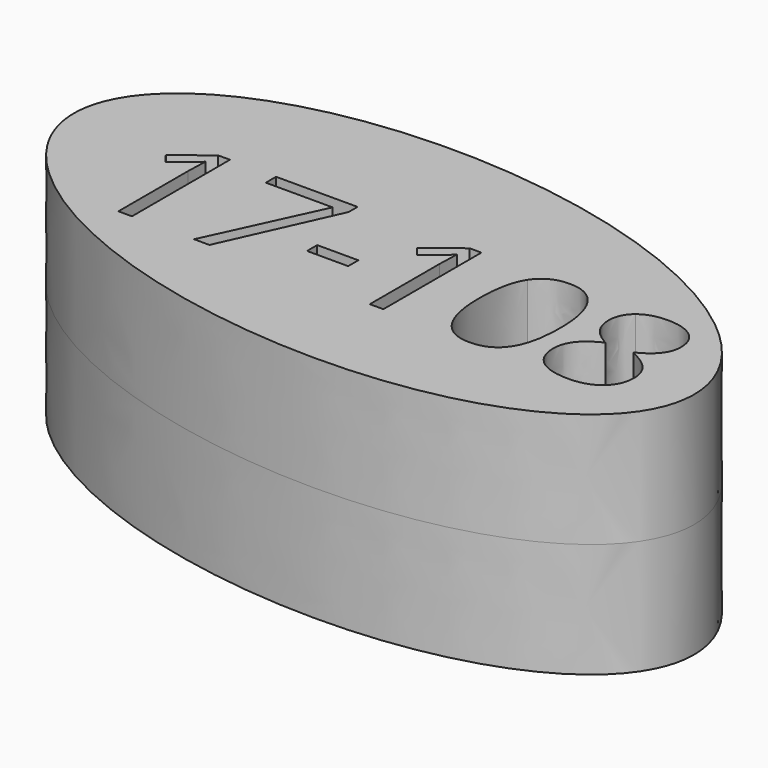
from build123d import *

# Parameters (mm, degrees)
F0_W     = 9.1228311835
F0_H     = 2.82486624
F1_DEPTH = 25.4
F2_DEPTH = 25.4


with BuildPart() as f1:
    # F0 (on Top) → F1 (new body)
    with BuildSketch(Plane.XY):
        with BuildLine():
            add(Edge.make_bspline(
                [(74.7318789363, -10.0798700005), (83.2946862979, 53.4045482582), (-33.0845357873, 36.7821441296), (-149.4637578726, 20.159740001), (-41.647343149, -26.7022741291), (66.1690715747, -73.5642882592), (74.7318789363, -10.0798700005)],
                knots=[0, 0, 0, 2.0943951024, 2.0943951024, 4.1887902048, 4.1887902048, 6.2831853072, 6.2831853072, 6.2831853072], degree=2, weights=[1, 0.5, 1, 0.5, 1, 0.5, 1]))
        make_face()
        with BuildLine():
            Line((-42.8919061176, 10.905355403), (-42.8919061176, -16.2668842822))
            Line((-42.8919061176, -16.2668842822), (-45.901132049, -16.2668842822))
            Line((-45.901132049, -16.2668842822), (-45.901132049, 3.096830407))
            add(Edge.make_bspline(
                [(-45.901132049, 3.096830407), (-45.901132049, 5.5172947432), (-45.7524548785, 7.6701401724)],
                knots=[0, 0, 0, 1, 1, 1], degree=2))
            add(Edge.make_bspline(
                [(-45.7524548785, 7.6701401724), (-46.1390155219, 7.2776324422), (-46.6237030978, 6.8524157345)],
                knots=[0, 0, 0, 1, 1, 1], degree=2))
            add(Edge.make_bspline(
                [(-46.6237030978, 6.8524157345), (-47.1083906737, 6.4271990268), (-51.0453621492, 3.2276663171)],
                knots=[0, 0, 0, 1, 1, 1], degree=2))
            Line((-51.0453621492, 3.2276663171), (-52.680811025, 5.3448292254))
            Line((-52.680811025, 5.3448292254), (-45.4907830584, 10.905355403))
            Line((-45.4907830584, 10.905355403), (-42.8919061176, 10.905355403))
        make_face(mode=Mode.SUBTRACT)
        Polygon((-25.698878118, -16.2668842822), (-29.1184530401, -16.2668842822), (-17.8606176879, 8.0626479026), (-32.6688638723, 8.0626479026), (-32.6688638723, 10.905355403), (-14.5897199363, 10.905355403), (-14.5897199363, 8.4313672855), align=None, mode=Mode.SUBTRACT)
        with Locations((-6.5314172938, -6.0646568408)):
            Rectangle(F0_W, F0_H, mode=Mode.SUBTRACT)
        with BuildLine():
            Line((12.8739270032, 10.905355403), (12.8739270032, -16.2668842822))
            Line((12.8739270032, -16.2668842822), (9.8647010717, -16.2668842822))
            Line((9.8647010717, -16.2668842822), (9.8647010717, 3.096830407))
            add(Edge.make_bspline(
                [(9.8647010717, 3.096830407), (9.8647010717, 5.5172947432), (10.0133782422, 7.6701401724)],
                knots=[0, 0, 0, 1, 1, 1], degree=2))
            add(Edge.make_bspline(
                [(10.0133782422, 7.6701401724), (9.6268175989, 7.2776324422), (9.142130023, 6.8524157345)],
                knots=[0, 0, 0, 1, 1, 1], degree=2))
            add(Edge.make_bspline(
                [(9.142130023, 6.8524157345), (8.6574424471, 6.4271990268), (4.7204709715, 3.2276663171)],
                knots=[0, 0, 0, 1, 1, 1], degree=2))
            Line((4.7204709715, 3.2276663171), (3.0850220957, 5.3448292254))
            Line((3.0850220957, 5.3448292254), (10.2750500624, 10.905355403))
            Line((10.2750500624, 10.905355403), (12.8739270032, 10.905355403))
        make_face(mode=Mode.SUBTRACT)
        with BuildLine():
            add(Edge.make_bspline(
                [(38.9221672792, 7.7444787577), (41.2177427922, 4.1554118612), (41.2177427922, -2.6421083753)],
                knots=[0, 0, 0, 1, 1, 1], degree=2))
            add(Edge.make_bspline(
                [(41.2177427922, -2.6421083753), (41.2177427922, -9.6894062582), (38.9965058645, -13.1654785051)],
                knots=[0, 0, 0, 1, 1, 1], degree=2))
            add(Edge.make_bspline(
                [(38.9965058645, -13.1654785051), (36.7752689369, -16.641550752), (32.2019591715, -16.641550752)],
                knots=[0, 0, 0, 1, 1, 1], degree=2))
            add(Edge.make_bspline(
                [(32.2019591715, -16.641550752), (27.8189561844, -16.641550752), (25.5323013017, -13.0822192896)],
                knots=[0, 0, 0, 1, 1, 1], degree=2))
            add(Edge.make_bspline(
                [(25.5323013017, -13.0822192896), (23.245646419, -9.5228878272), (23.245646419, -2.6421083753)],
                knots=[0, 0, 0, 1, 1, 1], degree=2))
            add(Edge.make_bspline(
                [(23.245646419, -2.6421083753), (23.245646419, 4.4527662022), (25.4579627164, 7.8931559282)],
                knots=[0, 0, 0, 1, 1, 1], degree=2))
            add(Edge.make_bspline(
                [(25.4579627164, 7.8931559282), (27.6702790139, 11.3335456541), (32.2019591715, 11.3335456541)],
                knots=[0, 0, 0, 1, 1, 1], degree=2))
            add(Edge.make_bspline(
                [(32.2019591715, 11.3335456541), (36.6265917663, 11.3335456541), (38.9221672792, 7.7444787577)],
                knots=[0, 0, 0, 1, 1, 1], degree=2))
        make_face(mode=Mode.SUBTRACT)
        with BuildLine():
            add(Edge.make_bspline(
                [(48.1163635046, 9.5375254342), (50.2989443679, 11.2919160464), (53.9623498496, 11.2919160464)],
                knots=[0, 0, 0, 1, 1, 1], degree=2))
            add(Edge.make_bspline(
                [(53.9623498496, 11.2919160464), (57.6792791128, 11.2919160464), (59.8529393458, 9.5642873249)],
                knots=[0, 0, 0, 1, 1, 1], degree=2))
            add(Edge.make_bspline(
                [(59.8529393458, 9.5642873249), (62.0265995789, 7.8366586034), (62.0265995789, 4.791750151)],
                knots=[0, 0, 0, 1, 1, 1], degree=2))
            add(Edge.make_bspline(
                [(62.0265995789, 4.791750151), (62.0265995789, 2.7816348055), (60.7836584333, 1.1283446693)],
                knots=[0, 0, 0, 1, 1, 1], degree=2))
            add(Edge.make_bspline(
                [(60.7836584333, 1.1283446693), (59.5407172877, -0.524945467), (56.8050573501, -1.8808812622)],
                knots=[0, 0, 0, 1, 1, 1], degree=2))
            add(Edge.make_bspline(
                [(56.8050573501, -1.8808812622), (60.1116376226, -3.4628063566), (61.5062294821, -5.1993557083)],
                knots=[0, 0, 0, 1, 1, 1], degree=2))
            add(Edge.make_bspline(
                [(61.5062294821, -5.1993557083), (62.9008213416, -6.93590506), (62.9008213416, -9.2255334861)],
                knots=[0, 0, 0, 1, 1, 1], degree=2))
            add(Edge.make_bspline(
                [(62.9008213416, -9.2255334861), (62.9008213416, -12.6034788005), (60.5398278737, -14.6225147762)],
                knots=[0, 0, 0, 1, 1, 1], degree=2))
            add(Edge.make_bspline(
                [(60.5398278737, -14.6225147762), (58.1788344057, -16.641550752), (54.0753444992, -16.641550752)],
                knots=[0, 0, 0, 1, 1, 1], degree=2))
            add(Edge.make_bspline(
                [(54.0753444992, -16.641550752), (49.7280240331, -16.641550752), (47.3848718256, -14.7355094258)],
                knots=[0, 0, 0, 1, 1, 1], degree=2))
            add(Edge.make_bspline(
                [(47.3848718256, -14.7355094258), (45.0417196181, -12.8294680997), (45.0417196181, -9.3325810489)],
                knots=[0, 0, 0, 1, 1, 1], degree=2))
            add(Edge.make_bspline(
                [(45.0417196181, -9.3325810489), (45.0417196181, -4.6700649812), (50.727134619, -2.0652409536)],
                knots=[0, 0, 0, 1, 1, 1], degree=2))
            add(Edge.make_bspline(
                [(50.727134619, -2.0652409536), (48.1639401991, -0.6200988561), (47.0488614202, 1.0629267142)],
                knots=[0, 0, 0, 1, 1, 1], degree=2))
            add(Edge.make_bspline(
                [(47.0488614202, 1.0629267142), (45.9337826412, 2.7459522846), (45.9337826412, 4.8274326719)],
                knots=[0, 0, 0, 1, 1, 1], degree=2))
            add(Edge.make_bspline(
                [(45.9337826412, 4.8274326719), (45.9337826412, 7.783134822), (48.1163635046, 9.5375254342)],
                knots=[0, 0, 0, 1, 1, 1], degree=2))
        make_face(mode=Mode.SUBTRACT)
    extrude(amount=F1_DEPTH)

    # F0 (on Top) → F2 (join)
    with BuildSketch(Plane.XY):
        with BuildLine():
            add(Edge.make_bspline(
                [(74.7318789363, -10.0798700005), (83.2946862979, 53.4045482582), (-33.0845357873, 36.7821441296), (-149.4637578726, 20.159740001), (-41.647343149, -26.7022741291), (66.1690715747, -73.5642882592), (74.7318789363, -10.0798700005)],
                knots=[0, 0, 0, 2.0943951024, 2.0943951024, 4.1887902048, 4.1887902048, 6.2831853072, 6.2831853072, 6.2831853072], degree=2, weights=[1, 0.5, 1, 0.5, 1, 0.5, 1]))
        make_face()
        with BuildLine():
            Line((-42.8919061176, 10.905355403), (-42.8919061176, -16.2668842822))
            Line((-42.8919061176, -16.2668842822), (-45.901132049, -16.2668842822))
            Line((-45.901132049, -16.2668842822), (-45.901132049, 3.096830407))
            add(Edge.make_bspline(
                [(-45.901132049, 3.096830407), (-45.901132049, 5.5172947432), (-45.7524548785, 7.6701401724)],
                knots=[0, 0, 0, 1, 1, 1], degree=2))
            add(Edge.make_bspline(
                [(-45.7524548785, 7.6701401724), (-46.1390155219, 7.2776324422), (-46.6237030978, 6.8524157345)],
                knots=[0, 0, 0, 1, 1, 1], degree=2))
            add(Edge.make_bspline(
                [(-46.6237030978, 6.8524157345), (-47.1083906737, 6.4271990268), (-51.0453621492, 3.2276663171)],
                knots=[0, 0, 0, 1, 1, 1], degree=2))
            Line((-51.0453621492, 3.2276663171), (-52.680811025, 5.3448292254))
            Line((-52.680811025, 5.3448292254), (-45.4907830584, 10.905355403))
            Line((-45.4907830584, 10.905355403), (-42.8919061176, 10.905355403))
        make_face(mode=Mode.SUBTRACT)
        Polygon((-25.698878118, -16.2668842822), (-29.1184530401, -16.2668842822), (-17.8606176879, 8.0626479026), (-32.6688638723, 8.0626479026), (-32.6688638723, 10.905355403), (-14.5897199363, 10.905355403), (-14.5897199363, 8.4313672855), align=None, mode=Mode.SUBTRACT)
        with Locations((-6.5314172938, -6.0646568408)):
            Rectangle(F0_W, F0_H, mode=Mode.SUBTRACT)
        with BuildLine():
            Line((12.8739270032, 10.905355403), (12.8739270032, -16.2668842822))
            Line((12.8739270032, -16.2668842822), (9.8647010717, -16.2668842822))
            Line((9.8647010717, -16.2668842822), (9.8647010717, 3.096830407))
            add(Edge.make_bspline(
                [(9.8647010717, 3.096830407), (9.8647010717, 5.5172947432), (10.0133782422, 7.6701401724)],
                knots=[0, 0, 0, 1, 1, 1], degree=2))
            add(Edge.make_bspline(
                [(10.0133782422, 7.6701401724), (9.6268175989, 7.2776324422), (9.142130023, 6.8524157345)],
                knots=[0, 0, 0, 1, 1, 1], degree=2))
            add(Edge.make_bspline(
                [(9.142130023, 6.8524157345), (8.6574424471, 6.4271990268), (4.7204709715, 3.2276663171)],
                knots=[0, 0, 0, 1, 1, 1], degree=2))
            Line((4.7204709715, 3.2276663171), (3.0850220957, 5.3448292254))
            Line((3.0850220957, 5.3448292254), (10.2750500624, 10.905355403))
            Line((10.2750500624, 10.905355403), (12.8739270032, 10.905355403))
        make_face(mode=Mode.SUBTRACT)
        with BuildLine():
            add(Edge.make_bspline(
                [(38.9221672792, 7.7444787577), (41.2177427922, 4.1554118612), (41.2177427922, -2.6421083753)],
                knots=[0, 0, 0, 1, 1, 1], degree=2))
            add(Edge.make_bspline(
                [(41.2177427922, -2.6421083753), (41.2177427922, -9.6894062582), (38.9965058645, -13.1654785051)],
                knots=[0, 0, 0, 1, 1, 1], degree=2))
            add(Edge.make_bspline(
                [(38.9965058645, -13.1654785051), (36.7752689369, -16.641550752), (32.2019591715, -16.641550752)],
                knots=[0, 0, 0, 1, 1, 1], degree=2))
            add(Edge.make_bspline(
                [(32.2019591715, -16.641550752), (27.8189561844, -16.641550752), (25.5323013017, -13.0822192896)],
                knots=[0, 0, 0, 1, 1, 1], degree=2))
            add(Edge.make_bspline(
                [(25.5323013017, -13.0822192896), (23.245646419, -9.5228878272), (23.245646419, -2.6421083753)],
                knots=[0, 0, 0, 1, 1, 1], degree=2))
            add(Edge.make_bspline(
                [(23.245646419, -2.6421083753), (23.245646419, 4.4527662022), (25.4579627164, 7.8931559282)],
                knots=[0, 0, 0, 1, 1, 1], degree=2))
            add(Edge.make_bspline(
                [(25.4579627164, 7.8931559282), (27.6702790139, 11.3335456541), (32.2019591715, 11.3335456541)],
                knots=[0, 0, 0, 1, 1, 1], degree=2))
            add(Edge.make_bspline(
                [(32.2019591715, 11.3335456541), (36.6265917663, 11.3335456541), (38.9221672792, 7.7444787577)],
                knots=[0, 0, 0, 1, 1, 1], degree=2))
        make_face(mode=Mode.SUBTRACT)
        with BuildLine():
            add(Edge.make_bspline(
                [(48.1163635046, 9.5375254342), (50.2989443679, 11.2919160464), (53.9623498496, 11.2919160464)],
                knots=[0, 0, 0, 1, 1, 1], degree=2))
            add(Edge.make_bspline(
                [(53.9623498496, 11.2919160464), (57.6792791128, 11.2919160464), (59.8529393458, 9.5642873249)],
                knots=[0, 0, 0, 1, 1, 1], degree=2))
            add(Edge.make_bspline(
                [(59.8529393458, 9.5642873249), (62.0265995789, 7.8366586034), (62.0265995789, 4.791750151)],
                knots=[0, 0, 0, 1, 1, 1], degree=2))
            add(Edge.make_bspline(
                [(62.0265995789, 4.791750151), (62.0265995789, 2.7816348055), (60.7836584333, 1.1283446693)],
                knots=[0, 0, 0, 1, 1, 1], degree=2))
            add(Edge.make_bspline(
                [(60.7836584333, 1.1283446693), (59.5407172877, -0.524945467), (56.8050573501, -1.8808812622)],
                knots=[0, 0, 0, 1, 1, 1], degree=2))
            add(Edge.make_bspline(
                [(56.8050573501, -1.8808812622), (60.1116376226, -3.4628063566), (61.5062294821, -5.1993557083)],
                knots=[0, 0, 0, 1, 1, 1], degree=2))
            add(Edge.make_bspline(
                [(61.5062294821, -5.1993557083), (62.9008213416, -6.93590506), (62.9008213416, -9.2255334861)],
                knots=[0, 0, 0, 1, 1, 1], degree=2))
            add(Edge.make_bspline(
                [(62.9008213416, -9.2255334861), (62.9008213416, -12.6034788005), (60.5398278737, -14.6225147762)],
                knots=[0, 0, 0, 1, 1, 1], degree=2))
            add(Edge.make_bspline(
                [(60.5398278737, -14.6225147762), (58.1788344057, -16.641550752), (54.0753444992, -16.641550752)],
                knots=[0, 0, 0, 1, 1, 1], degree=2))
            add(Edge.make_bspline(
                [(54.0753444992, -16.641550752), (49.7280240331, -16.641550752), (47.3848718256, -14.7355094258)],
                knots=[0, 0, 0, 1, 1, 1], degree=2))
            add(Edge.make_bspline(
                [(47.3848718256, -14.7355094258), (45.0417196181, -12.8294680997), (45.0417196181, -9.3325810489)],
                knots=[0, 0, 0, 1, 1, 1], degree=2))
            add(Edge.make_bspline(
                [(45.0417196181, -9.3325810489), (45.0417196181, -4.6700649812), (50.727134619, -2.0652409536)],
                knots=[0, 0, 0, 1, 1, 1], degree=2))
            add(Edge.make_bspline(
                [(50.727134619, -2.0652409536), (48.1639401991, -0.6200988561), (47.0488614202, 1.0629267142)],
                knots=[0, 0, 0, 1, 1, 1], degree=2))
            add(Edge.make_bspline(
                [(47.0488614202, 1.0629267142), (45.9337826412, 2.7459522846), (45.9337826412, 4.8274326719)],
                knots=[0, 0, 0, 1, 1, 1], degree=2))
            add(Edge.make_bspline(
                [(45.9337826412, 4.8274326719), (45.9337826412, 7.783134822), (48.1163635046, 9.5375254342)],
                knots=[0, 0, 0, 1, 1, 1], degree=2))
        make_face(mode=Mode.SUBTRACT)
    extrude(amount=-F2_DEPTH)


solid = f1.part
